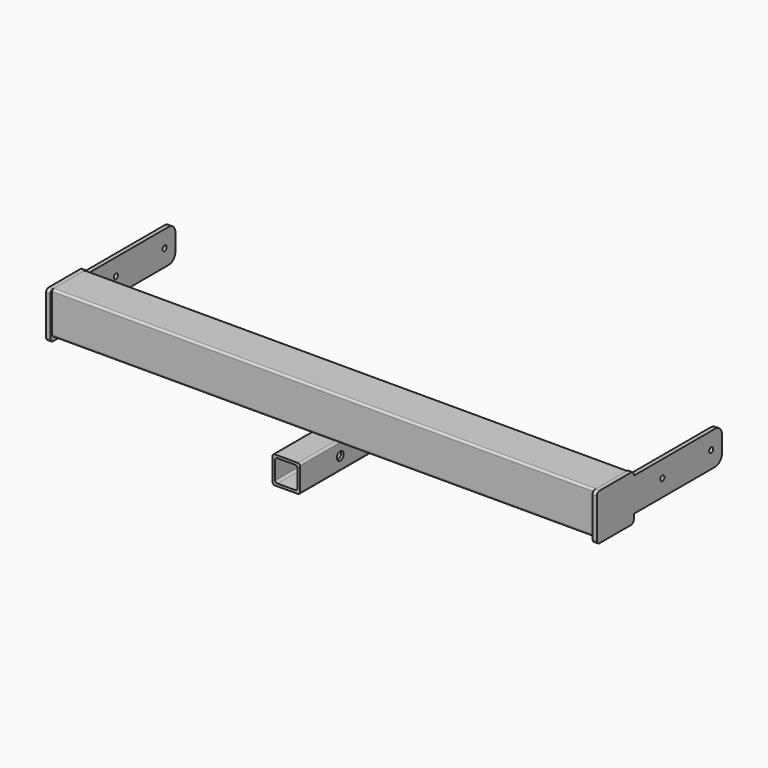
from build123d import *

# Parameters (mm, degrees)
F1_DEPTH       = 645
F1_DEPTH_BACK  = 645
F2_R           = 6
F3_DEPTH       = 10
F4_R           = 8
F7_DEPTH       = 110
F7_DEPTH_BACK  = 140
F8_R           = 10
F9_DEPTH       = 259
F11_DEPTH      = 10
F12_R          = 5
F13_DEPTH      = 25
F13_DEPTH_BACK = 25.8
F14_SIZE       = 1
F15_R          = 5
F16_DEPTH      = 10


with BuildPart() as f1:
    # F0 (on Right) → F1 (new body, two sides)
    with BuildSketch(Plane.YZ) as f1_sk:
        with BuildLine():
            ThreePointArc((50, 45.1), (48.5648232278, 48.5648232278), (45.1, 50))
            Line((45.1, 50), (-45.1, 50))
            ThreePointArc((-45.1, 50), (-48.5648232278, 48.5648232278), (-50, 45.1))
            Line((-50, 45.1), (-50, -45.1))
            ThreePointArc((-50, -45.1), (-48.5648232278, -48.5648232278), (-45.1, -50))
            Line((-45.1, -50), (45.1, -50))
            ThreePointArc((45.1, -50), (48.5648232278, -48.5648232278), (50, -45.1))
            Line((50, -45.1), (50, 45.1))
        make_face()
        with BuildLine():
            Line((-40.1, 45), (40.1, 45))
            ThreePointArc((40.1, 45), (43.5648232278, 43.5648232278), (45, 40.1))
            Line((45, 40.1), (45, -40.1))
            ThreePointArc((45, -40.1), (43.5648232278, -43.5648232278), (40.1, -45))
            Line((40.1, -45), (-40.1, -45))
            ThreePointArc((-40.1, -45), (-43.5648232278, -43.5648232278), (-45, -40.1))
            Line((-45, -40.1), (-45, 40.1))
            ThreePointArc((-45, 40.1), (-43.5648232278, 43.5648232278), (-40.1, 45))
        make_face(mode=Mode.SUBTRACT)
    extrude(amount=F1_DEPTH)
    extrude(f1_sk.sketch, amount=-F1_DEPTH_BACK)


with BuildPart() as f3:
    # F2 (on face) → F3 (new body)
    with BuildSketch(Plane(origin=(-645, 0, 0), x_dir=(0, -1, 0), z_dir=(-1, 0, 0))):
        with BuildLine():
            Line((55.4204173386, -60), (55.4204173386, 50))
            Line((55.4204173386, 50), (-54.5795826614, 50))
            Line((-54.5795826614, 50), (-54.5795826614, 40))
            Line((-54.5795826614, 40), (-296.5795826614, 40))
            ThreePointArc((-296.5795826614, 40), (-310.7217182851, 34.1421356237), (-316.5795826614, 20))
            Line((-316.5795826614, 20), (-316.5795826614, -20))
            ThreePointArc((-316.5795826614, -20), (-310.7217182851, -34.1421356237), (-296.5795826614, -40))
            Line((-296.5795826614, -40), (-54.5795826614, -40))
            Line((-54.5795826614, -40), (-54.5795826614, -60))
            Line((-54.5795826614, -60), (55.4204173386, -60))
        make_face()
        with Locations((-284.5795826614, 0)):
            Circle(F2_R, mode=Mode.SUBTRACT)
        with Locations((-139.5795826614, 0)):
            Circle(F2_R, mode=Mode.SUBTRACT)
    extrude(amount=F3_DEPTH)

    # F4
    f4_edges = [f3.edges().sort_by_distance(p)[0] for p in [
        (-650, 54.579583, 50),
        (-650, -55.420417, 50),
        (-650, -55.420417, -60),
        (-650, 54.579583, -60),
    ]]
    fillet(f4_edges, radius=F4_R)


with BuildPart() as f5_1:
    # F5: instance of F3
    add(f3.part.mirror(Plane.YZ))


with BuildPart() as f7:
    # F6 (on face) → F7 (new body, two sides)
    with BuildSketch(Plane.XZ.offset(50)) as f7_sk:
        with BuildLine():
            Line((27.5, -50.103611052), (-27.5, -50.103611052))
            ThreePointArc((-27.5, -50.103611052), (-31.0355339059, -51.5680771461), (-32.5, -55.103611052))
            Line((-32.5, -55.103611052), (-32.5, -110.103611052))
            ThreePointArc((-32.5, -110.103611052), (-31.0355339059, -113.639144958), (-27.5, -115.103611052))
            Line((-27.5, -115.103611052), (27.5, -115.103611052))
            ThreePointArc((27.5, -115.103611052), (31.0355339059, -113.639144958), (32.5, -110.103611052))
            Line((32.5, -110.103611052), (32.5, -55.103611052))
            ThreePointArc((32.5, -55.103611052), (31.0355339059, -51.5680771461), (27.5, -50.103611052))
        make_face()
        with BuildLine():
            ThreePointArc((-26.5, -61.103611052), (-25.0355339059, -57.5680771461), (-21.5, -56.103611052))
            Line((-21.5, -56.103611052), (21.5, -56.103611052))
            ThreePointArc((21.5, -56.103611052), (25.0355339059, -57.5680771461), (26.5, -61.103611052))
            Line((26.5, -61.103611052), (26.5, -104.103611052))
            ThreePointArc((26.5, -104.103611052), (25.0355339059, -107.639144958), (21.5, -109.103611052))
            Line((21.5, -109.103611052), (-21.5, -109.103611052))
            ThreePointArc((-21.5, -109.103611052), (-25.0355339059, -107.639144958), (-26.5, -104.103611052))
            Line((-26.5, -104.103611052), (-26.5, -61.103611052))
        make_face(mode=Mode.SUBTRACT)
    extrude(amount=F7_DEPTH)
    extrude(f7_sk.sketch, amount=-F7_DEPTH_BACK)

    # F8 (on face) → F9 (cut)
    with BuildSketch(Plane(origin=(-32.5, 0, 0), x_dir=(0, -1, 0), z_dir=(-1, 0, 0))):
        with Locations((40, -82.603611052)):
            Circle(F8_R)
    extrude(amount=-F9_DEPTH, mode=Mode.SUBTRACT)

    # F10 (on face) → F11 (join)
    with BuildSketch(Plane(origin=(0, 0, -115.103611052), x_dir=(1, 0, 0), z_dir=(0, 0, -1))):
        Polygon((-4.6155781431, -21.8492146033), (-9.3665762859, -29.9218152267), (-4.7509981428, -38.0726006234), (4.6155781431, -38.1507853967), (9.3665762859, -30.0781847733), (4.7509981428, -21.9273993766), align=None)
    extrude(amount=F11_DEPTH)

    # F12 (on face) → F13 (cut, two sides)
    with BuildSketch(Plane(origin=(0, 0, -115.103611052), x_dir=(1, 0, 0), z_dir=(0, 0, -1))) as f13_sk:
        with Locations((0, -30)):
            Circle(F12_R)
    extrude(amount=-F13_DEPTH, mode=Mode.SUBTRACT)
    extrude(f13_sk.sketch, amount=F13_DEPTH_BACK, mode=Mode.SUBTRACT)

    # F14
    f14_edges = [f7.edges().sort_by_distance(p)[0] for p in [
        (0.06771, 21.888307, -125.103611),
        (7.058787, 26.002792, -125.103611),
        (-6.991077, 25.885515, -125.103611),
        (6.991077, 34.114485, -125.103611),
        (-7.058787, 33.997208, -125.103611),
        (-0.06771, 38.111693, -125.103611),
        (-5, 30, -125.103611),
    ]]
    chamfer(f14_edges, length=F14_SIZE)


with BuildPart() as f16:
    # F15 (on face) → F16 (new body)
    with BuildSketch(Plane(origin=(0, 50, 0), x_dir=(-1, 0, 0), z_dir=(0, 1, 0))):
        Polygon((-33.2786262035, -100.390178534), (-33.2786262035, -50.390178534), (-133.2786262035, -50.390178534), align=None)
        with Locations((-60.7731044292, -68.5368180275)):
            Circle(F15_R, mode=Mode.SUBTRACT)
    extrude(amount=F16_DEPTH)


with BuildPart() as f17_1:
    # F17: instance of F16
    add(f16.part.mirror(Plane.YZ))


solid = Compound([f1.part, f3.part, f5_1.part, f7.part, f16.part, f17_1.part])
